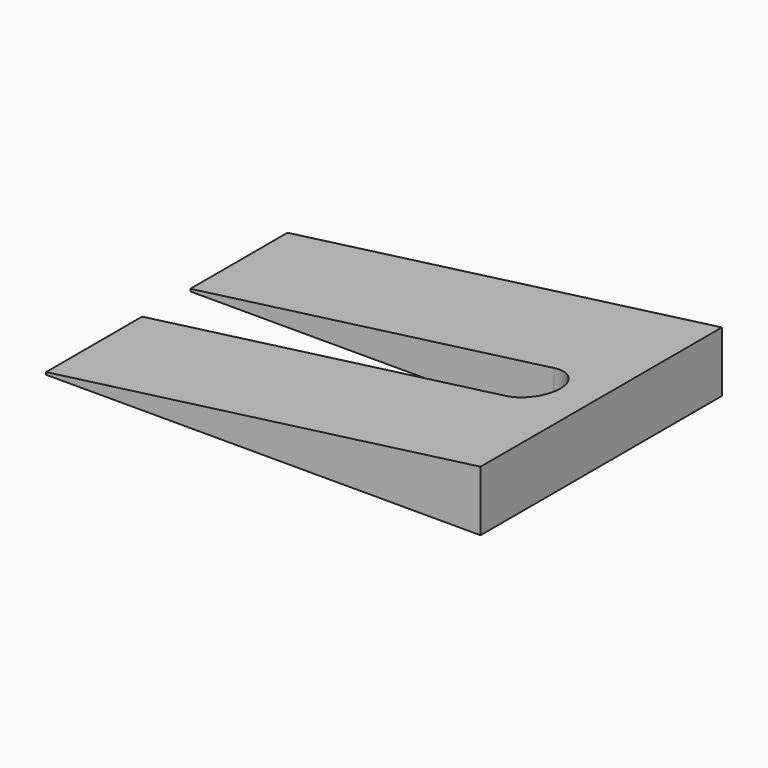
from build123d import *

# Parameters (mm, degrees)
F1_DEPTH = 25
F3_D     = 4
F4_DEPTH = 25


with BuildPart() as f1:
    # F0 (on Front) → F1 (new body)
    with BuildSketch(Plane.XZ):
        Polygon((0, 0.2), (0, 0), (36, 0), (36, 5), align=None)
    extrude(amount=F1_DEPTH)

    # F3 (through all)
    with Locations(Plane(origin=(0, 0, 0), x_dir=(1, 0, 0), z_dir=(0, 0, -1))):
        with Locations((30.147626, 12.554323)):
            Hole(F3_D / 2)

    # F2 (on face) → F4 (cut)
    with BuildSketch(Plane(origin=(0, 0, 0), x_dir=(1, 0, 0), z_dir=(0, 0, -1))):
        with BuildLine():
            ThreePointArc((30.147626, 10.054323), (27.647626, 12.554323), (30.147626, 15.054323))
            Line((30.147626, 15.054323), (0, 15.054323))
            Line((0, 15.054323), (0, 10.054323))
            Line((0, 10.054323), (30.147626, 10.054323))
        make_face()
        with BuildLine():
            ThreePointArc((30.147626, 10.054323), (31.915393, 10.786556), (32.647626, 12.554323))
            ThreePointArc((32.647626, 12.554323), (31.915393, 14.32209), (30.147626, 15.054323))
            ThreePointArc((30.147626, 15.054323), (27.647626, 12.554323), (30.147626, 10.054323))
        make_face()
    extrude(amount=-F4_DEPTH, mode=Mode.SUBTRACT)


solid = f1.part
